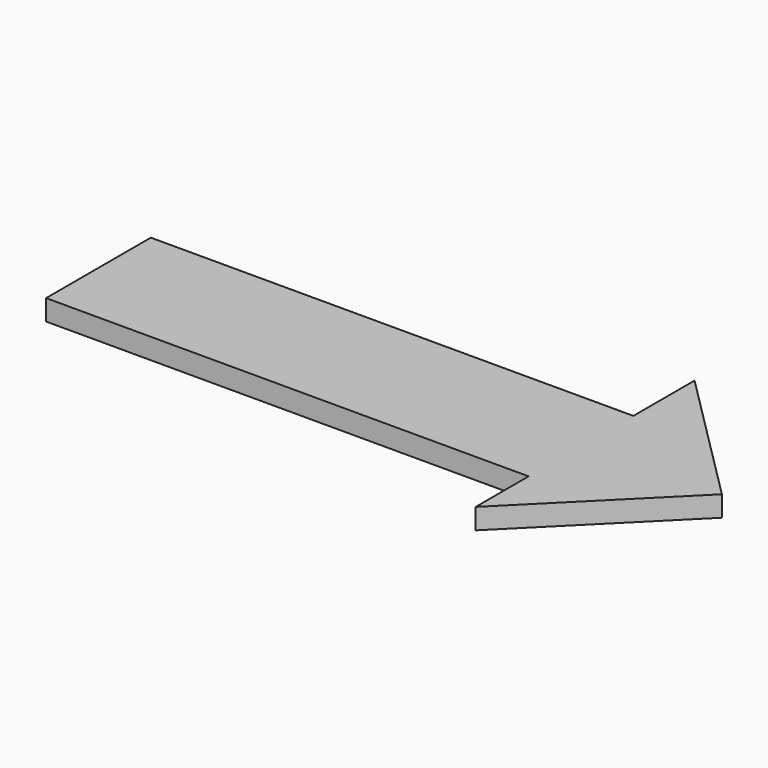
from build123d import *

# Parameters (mm, degrees)
PAD_DEPTH = 3


with BuildPart() as part:
    # Sketch → Pad (new body)
    with BuildSketch(Plane.XY):
        Polygon((-60.149578, 8.760674), (9.935889, 8.760674), (9.935889, 19.871786), (29.807684, 0), (9.935889, -19.871805), (9.935889, -10.256419), (-60.149578, -10.256419), align=None)
    extrude(amount=PAD_DEPTH)


solid = part.part
